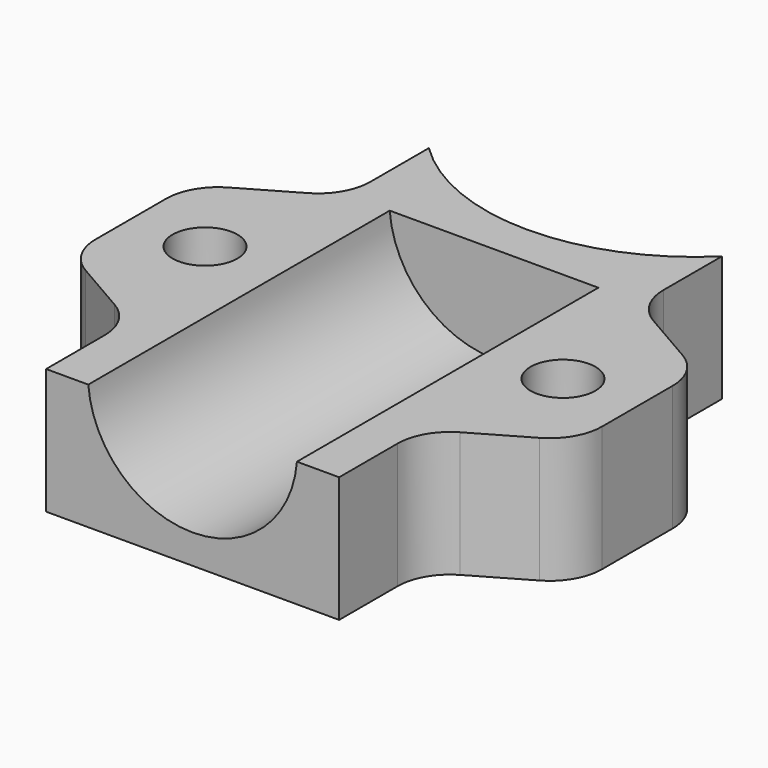
from build123d import *

# Parameters (mm, degrees)
SKETCH_R        = 1.55
EXTRUDE_DEPTH   = 6
SKETCH001_R     = 5
POCKET_DEPTH    = 18
FILLET_R        = 2.5
SKETCH002_R     = 3
POCKET001_DEPTH = 2


with BuildPart() as part:
    # Sketch → Extrude (new body)
    with BuildSketch(Plane.XY):
        with BuildLine():
            Line((-7, 11.429286), (-7, 6.494486))
            Line((-7, 6.494486), (-12.1, 3.55))
            Line((-12.1, 3.55), (-12.1, -3.55))
            Line((-12.1, -3.55), (-7, -6.494486))
            Line((-7, -6.494486), (-7, -11.429286))
            Line((-7, -11.429286), (7, -11.429286))
            Line((7, -11.429286), (7, -6.494486))
            Line((7, -6.494486), (12.1, -3.55))
            Line((12.1, -3.55), (12.1, 3.55))
            Line((12.1, 3.55), (7, 6.494486))
            Line((7, 6.494486), (7, 11.429286))
            ThreePointArc((-7, 11.429286), (0, 8.570714), (7, 11.429286))
        make_face()
        with Locations((-8.55, 0)):
            Circle(SKETCH_R, mode=Mode.SUBTRACT)
        with Locations((8.55, 0)):
            Circle(SKETCH_R, mode=Mode.SUBTRACT)
    extrude(amount=EXTRUDE_DEPTH)

    # Sketch001 → Pocket (cut)
    with BuildSketch(Plane.XZ.offset(11.429286)):
        with Locations((0, 6.4)):
            Circle(SKETCH001_R)
    extrude(amount=-POCKET_DEPTH, mode=Mode.SUBTRACT)

    # Fillet
    fillet_edges = [part.edges().sort_by_distance(p)[0] for p in [
        (-7, 6.494486, 3),
        (-12.1, 3.55, 3),
        (7, 6.494486, 3),
        (-12.1, -3.55, 3),
        (-7, -6.494486, 3),
        (7, -6.494486, 3),
        (12.1, -3.55, 3),
        (12.1, 3.55, 3),
    ]]
    fillet(fillet_edges, radius=FILLET_R)

    # Sketch002 → Pocket001 (cut)
    with BuildSketch(Plane(origin=(0, 0, 0), x_dir=(1, 0, 0), z_dir=(0, 0, -1))):
        with Locations((-8.55, 0)):
            Circle(SKETCH002_R)
        with Locations((8.55, 0)):
            Circle(SKETCH002_R)
    extrude(amount=-POCKET001_DEPTH, mode=Mode.SUBTRACT)


solid = part.part
